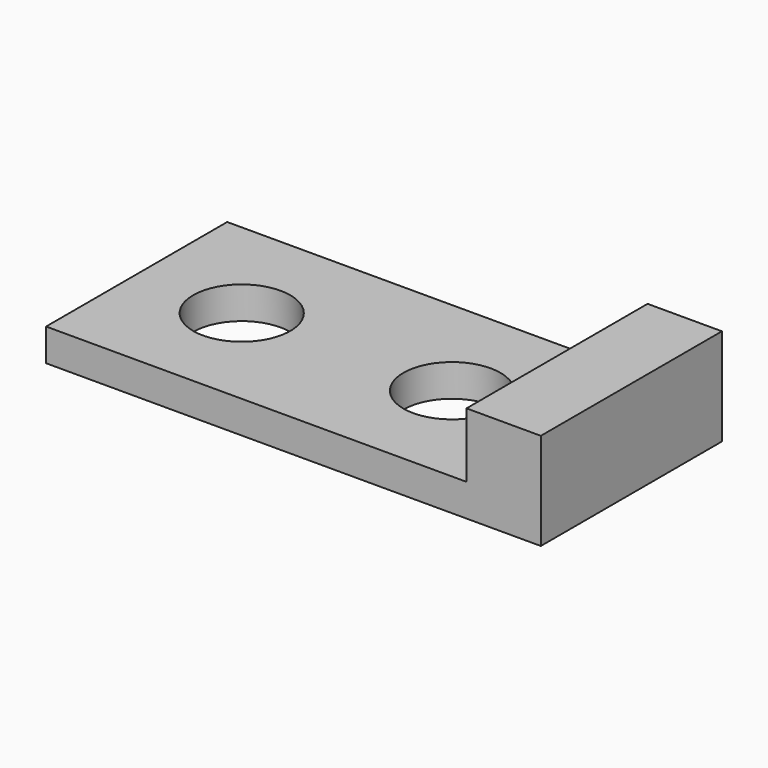
from build123d import *

# Parameters (mm, degrees)
F0_W     = 82.55
F0_H     = 88.9
F1_DEPTH = 12.7
F3_D     = 38.1
F4_W     = 5.5692129374
F4_H     = 88.9
F5_DEPTH = 38.1
F6_W     = 88.9
F6_H     = 38.1
F7_DEPTH = 23.6223284155


with BuildPart() as f1:
    # F0 (on Top) → F1 (new body)
    with BuildSketch(Plane.XY):
        with Locations((41.275, -44.45)):
            Rectangle(F0_W, F0_H)
        with Locations((123.825, -44.45)):
            Rectangle(F0_W, F0_H)
    extrude(amount=F1_DEPTH)

    # F3 (through all)
    with Locations(Plane(origin=(0, 0, 0), x_dir=(1, 0, 0), z_dir=(0, 0, -1))):
        with Locations((123.825, 44.45), (41.275, 44.45)):
            Hole(F3_D / 2)

    # F4 (on face) → F5 (join)
    with BuildSketch(Plane(origin=(0, 0, 0), x_dir=(1, 0, 0), z_dir=(0, 0, -1))):
        with Locations((167.8846064687, 44.45)):
            Rectangle(F4_W, F4_H)
    extrude(amount=-F5_DEPTH)

    # F6 (on face) → F7 (join)
    with BuildSketch(Plane.YZ.offset(170.6692129374)):
        with Locations((-44.45, 19.05)):
            Rectangle(F6_W, F6_H)
    extrude(amount=F7_DEPTH)


solid = f1.part
